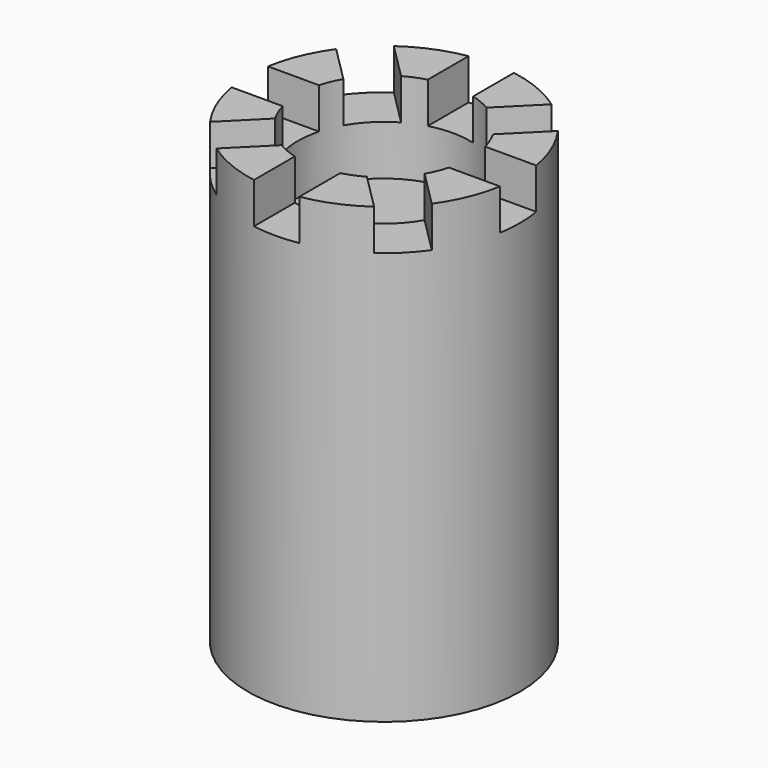
from build123d import *

# Parameters (mm, degrees)
CYLINDER001_R     = 19
CYLINDER001_DEPTH = 20
BOX_W             = 20
BOX_H             = 10
BOX_DEPTH         = 10
ARRAY_COUNT       = 8
CYLINDER_R        = 30
CYLINDER_DEPTH    = 100


with BuildPart() as cilindre001:
    # Cylinder001 → Cylinder001 (new body)
    with BuildSketch(Plane.XY.offset(80)):
        Circle(CYLINDER001_R)
    extrude(amount=CYLINDER001_DEPTH)


with BuildPart() as array:
    # Box → Box (new body)
    with BuildSketch(Plane(origin=(18, -5, 91), x_dir=(1, 0, 0), z_dir=(0, 0, 1))):
        with Locations((10, 5)):
            Rectangle(BOX_W, BOX_H)
    extrude(amount=BOX_DEPTH)

    # Array: Array ×8 about axis
    array_axis = Axis((0, 0, 0), (0, 0, 1))


with BuildPart() as array_1:
    add(array.part)
    for i in range(1, ARRAY_COUNT):
        add(array.part.rotate(array_axis, i * 360 / ARRAY_COUNT))


with BuildPart() as cut001:
    # Cylinder → Cylinder (new body)
    with BuildSketch(Plane.XY):
        Circle(CYLINDER_R)
    extrude(amount=CYLINDER_DEPTH)

    # Cut: cut Array
    add(array_1.part, mode=Mode.SUBTRACT)

    # Cut001: cut Cilindre001
    add(cilindre001.part, mode=Mode.SUBTRACT)


solid = cut001.part
